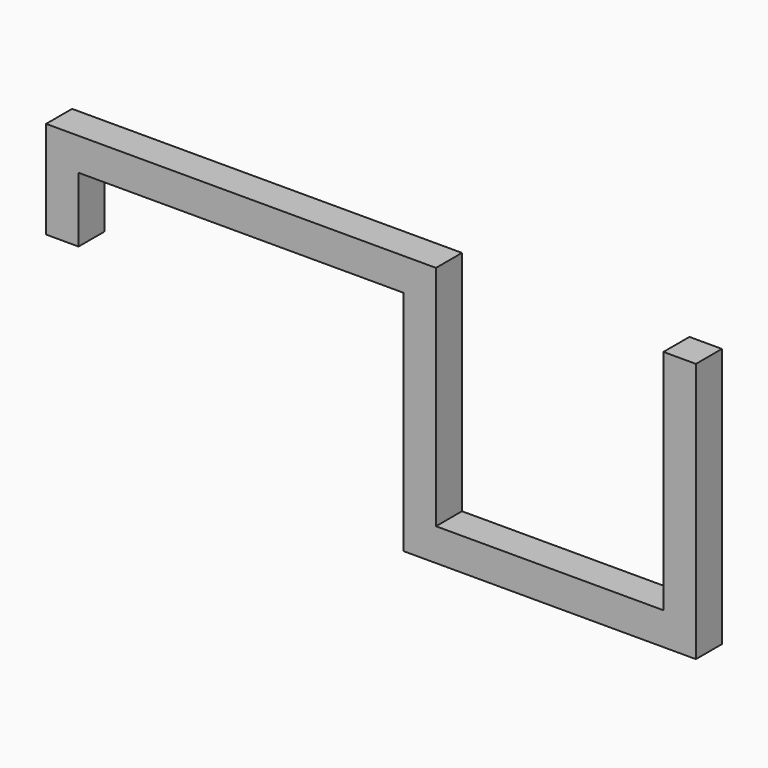
from build123d import *

# Parameters (mm, degrees)
F0_W     = 254
F0_H     = 25.4
F0_W_2   = 177.8
F1_DEPTH = 25.4


with BuildPart() as f1:
    # F0 (on Front) → F1 (new body)
    with BuildSketch(Plane.XZ):
        Rectangle(F0_W, F0_H)
        Polygon((127, 12.7), (127, -12.7), (127, -190.5), (152.4, -190.5), (152.4, -165.1), (152.4, 12.7), align=None)
        Polygon((-127, -63.5), (-127, -12.7), (-127, 12.7), (-152.4, 12.7), (-152.4, -63.5), align=None)
        with Locations((241.3, -177.8)):
            Rectangle(F0_W_2, F0_H)
        Polygon((330.2, -165.1), (330.2, -190.5), (355.6, -190.5), (355.6, 12.7), (330.2, 12.7), align=None)
    extrude(amount=F1_DEPTH)


solid = f1.part
